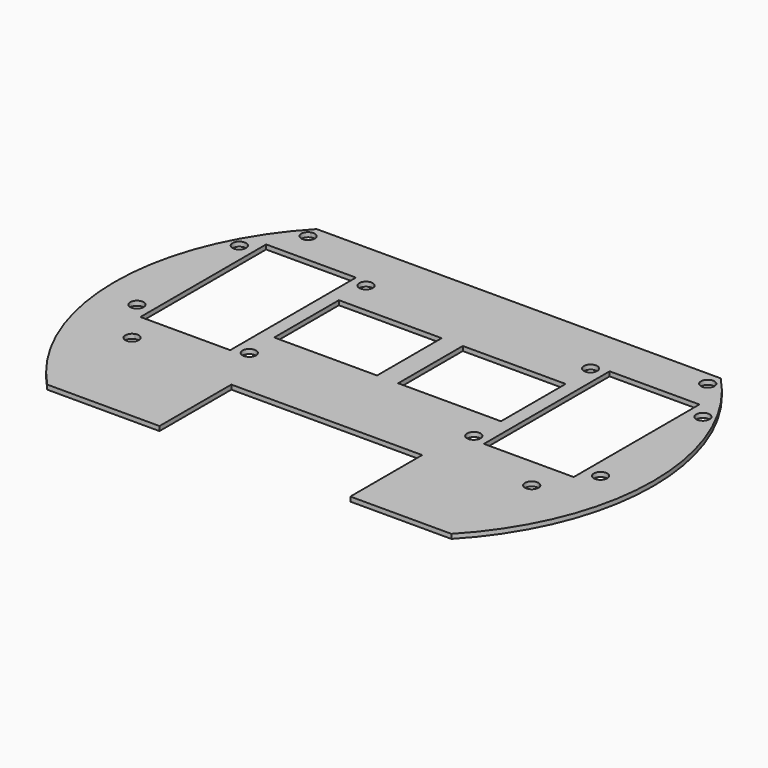
from build123d import *

# Parameters (mm, degrees)
F0_R     = 3
F0_W     = 45.8
F0_H     = 36
F1_DEPTH = 2


with BuildPart() as f1:
    # F0 (on Top) → F1 (new body)
    with BuildSketch(Plane.XY):
        with BuildLine():
            Line((-100.743165, 71.169704), (-100.743165, 74.341277))
            ThreePointArc((-100.743165, 74.341277), (-130.743165, -0.658723), (-100.743165, -75.658723))
            Line((-100.743165, -75.658723), (-100.743165, -32.48715))
            ThreePointArc((-100.743165, -32.48715), (-102.743165, -29.658723), (-100.743165, -26.830296))
            Line((-100.743165, -26.830296), (-100.743165, -15.658723))
            Line((-100.743165, -15.658723), (-107.243165, -15.658723))
            Line((-107.243165, -15.658723), (-107.243165, 19.341277))
            Line((-107.243165, 19.341277), (-107.243165, 54.341277))
            Line((-107.243165, 54.341277), (-100.743165, 54.341277))
            Line((-100.743165, 54.341277), (-100.743165, 65.51285))
            ThreePointArc((-100.743165, 65.51285), (-102.743165, 68.341277), (-100.743165, 71.169704))
        make_face()
        with Locations((-113.993165, -9.158723)):
            Circle(F0_R, mode=Mode.SUBTRACT)
        with Locations((-113.993165, 47.841277)):
            Circle(F0_R, mode=Mode.SUBTRACT)
        with BuildLine():
            Line((-10.743165, 74.341277), (-100.743165, 74.341277))
            Line((-100.743165, 74.341277), (-100.743165, 71.169704))
            ThreePointArc((-100.743165, 71.169704), (-98.011114, 70.790767), (-96.743165, 68.341277))
            ThreePointArc((-96.743165, 68.341277), (-98.011114, 65.891788), (-100.743165, 65.51285))
            Line((-100.743165, 65.51285), (-100.743165, 54.341277))
            Line((-100.743165, 54.341277), (-67.243165, 54.341277))
            Line((-67.243165, 54.341277), (-67.243165, 19.341277))
            Line((-67.243165, 19.341277), (-67.243165, -15.658723))
            Line((-67.243165, -15.658723), (-100.743165, -15.658723))
            Line((-100.743165, -15.658723), (-100.743165, -26.830296))
            ThreePointArc((-100.743165, -26.830296), (-98.011114, -27.209233), (-96.743165, -29.658723))
            ThreePointArc((-96.743165, -29.658723), (-98.011114, -32.108212), (-100.743165, -32.48715))
            Line((-100.743165, -32.48715), (-100.743165, -75.658723))
            Line((-100.743165, -75.658723), (-50.743165, -75.658723))
            Line((-50.743165, -75.658723), (-50.743165, -35.658723))
            Line((-50.743165, -35.658723), (-10.743165, -35.658723))
            Line((-10.743165, -35.658723), (-10.743165, 74.341277))
        make_face()
        with Locations((-60.743165, -13.158723)):
            Circle(F0_R, mode=Mode.SUBTRACT)
        with Locations((-38.343165, 19.341277)):
            Rectangle(F0_W, F0_H, mode=Mode.SUBTRACT)
        with Locations((-60.743165, 51.841277)):
            Circle(F0_R, mode=Mode.SUBTRACT)
        with BuildLine():
            Line((79.256835, 74.341277), (-10.743165, 74.341277))
            Line((-10.743165, 74.341277), (-10.743165, -35.658723))
            Line((-10.743165, -35.658723), (34.256835, -35.658723))
            Line((34.256835, -35.658723), (34.256835, -75.658723))
            Line((34.256835, -75.658723), (79.256835, -75.658723))
            Line((79.256835, -75.658723), (79.256835, -32.48715))
            ThreePointArc((79.256835, -32.48715), (75.256835, -29.658723), (79.256835, -26.830296))
            Line((79.256835, -26.830296), (79.256835, -15.658723))
            Line((79.256835, -15.658723), (45.756835, -15.658723))
            Line((45.756835, -15.658723), (45.756835, 19.341277))
            Line((45.756835, 19.341277), (45.756835, 54.341277))
            Line((45.756835, 54.341277), (79.256835, 54.341277))
            Line((79.256835, 54.341277), (79.256835, 65.51285))
            ThreePointArc((79.256835, 65.51285), (75.256835, 68.341277), (79.256835, 71.169704))
            Line((79.256835, 71.169704), (79.256835, 74.341277))
        make_face()
        with Locations((39.256835, -13.158723)):
            Circle(F0_R, mode=Mode.SUBTRACT)
        with Locations((16.856835, 19.341277)):
            Rectangle(F0_W, F0_H, mode=Mode.SUBTRACT)
        with Locations((39.256835, 51.841277)):
            Circle(F0_R, mode=Mode.SUBTRACT)
        with BuildLine():
            ThreePointArc((79.256835, -75.658723), (109.256835, -0.658723), (79.256835, 74.341277))
            Line((79.256835, 74.341277), (79.256835, 71.169704))
            ThreePointArc((79.256835, 71.169704), (80.706325, 70.073328), (81.256835, 68.341277))
            ThreePointArc((81.256835, 68.341277), (80.706325, 66.609227), (79.256835, 65.51285))
            Line((79.256835, 65.51285), (79.256835, 54.341277))
            Line((79.256835, 54.341277), (85.756835, 54.341277))
            Line((85.756835, 54.341277), (85.756835, 19.341277))
            Line((85.756835, 19.341277), (85.756835, -15.658723))
            Line((85.756835, -15.658723), (79.256835, -15.658723))
            Line((79.256835, -15.658723), (79.256835, -26.830296))
            ThreePointArc((79.256835, -26.830296), (80.706325, -27.926672), (81.256835, -29.658723))
            ThreePointArc((81.256835, -29.658723), (80.706325, -31.390773), (79.256835, -32.48715))
            Line((79.256835, -32.48715), (79.256835, -75.658723))
        make_face()
        with Locations((92.506835, -9.158723)):
            Circle(F0_R, mode=Mode.SUBTRACT)
        with Locations((92.506835, 47.841277)):
            Circle(F0_R, mode=Mode.SUBTRACT)
    extrude(amount=F1_DEPTH)


solid = f1.part
